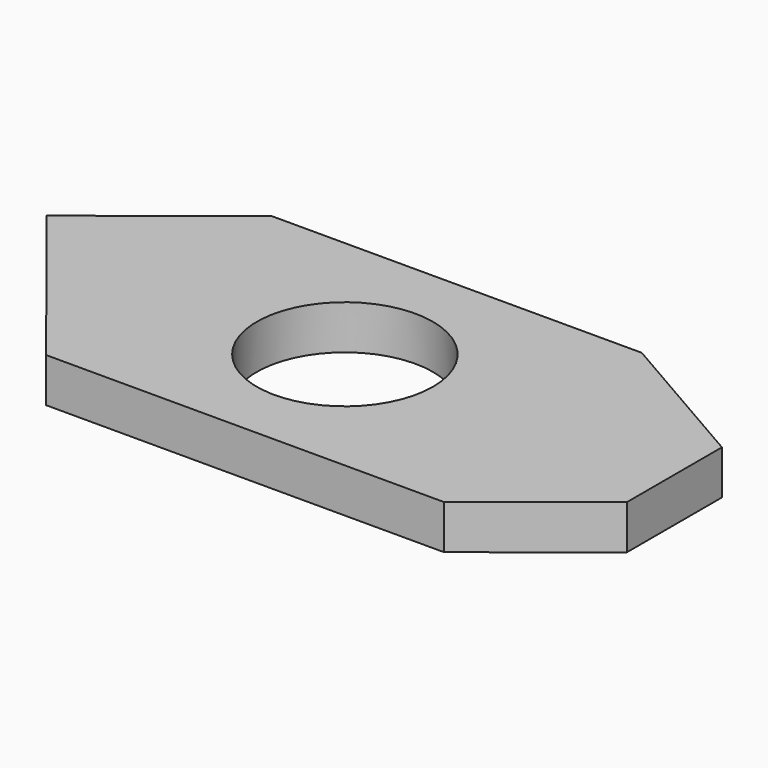
from build123d import *

# Parameters (mm, degrees)
F0_R     = 12.665089
F1_DEPTH = 6.35


with BuildPart() as f1:
    # F0 (on Top) → F1 (new body)
    with BuildSketch(Plane.XY):
        Polygon((33.644758, 29.402138), (-19.63379, 29.402138), (-39.356475, 13.687648), (-18.24176, -12.812662), (38.991049, -12.812662), (55.029925, 0), (55.029925, 17.076973), align=None)
        with Locations((7.836725, 8.294738)):
            Circle(F0_R, mode=Mode.SUBTRACT)
    extrude(amount=F1_DEPTH)


solid = f1.part
